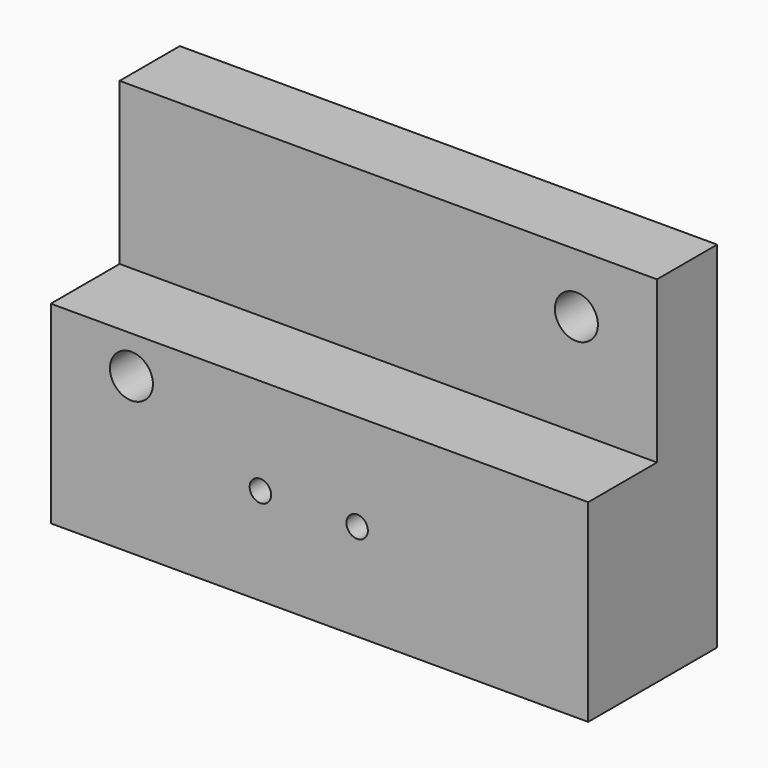
from build123d import *

# Parameters (mm, degrees)
F0_W     = 50
F0_H     = 33
F0_R     = 2
F0_R_2   = 1
F1_DEPTH = 7
F2_W     = 50
F2_H     = 18
F2_R     = 1
F2_R_2   = 2
F3_DEPTH = 15


with BuildPart() as f1:
    # F0 (on Front) → F1 (new body)
    with BuildSketch(Plane.XZ):
        with Locations((25, -16.5)):
            Rectangle(F0_W, F0_H)
        with Locations((7.5, -18.5)):
            Circle(F0_R, mode=Mode.SUBTRACT)
        with Locations((19.5, -24)):
            Circle(F0_R_2, mode=Mode.SUBTRACT)
        with Locations((28.5, -24)):
            Circle(F0_R_2, mode=Mode.SUBTRACT)
        with Locations((42.5, -5.5)):
            Circle(F0_R, mode=Mode.SUBTRACT)
    extrude(amount=F1_DEPTH)

    # F2 (on Front) → F3 (join)
    with BuildSketch(Plane.XZ):
        with Locations((25, -24)):
            Rectangle(F2_W, F2_H)
        with Locations((19.5, -24)):
            Circle(F2_R, mode=Mode.SUBTRACT)
        with Locations((7.5, -18.5)):
            Circle(F2_R_2, mode=Mode.SUBTRACT)
        with Locations((28.5, -24)):
            Circle(F2_R, mode=Mode.SUBTRACT)
    extrude(amount=F3_DEPTH)


solid = f1.part
